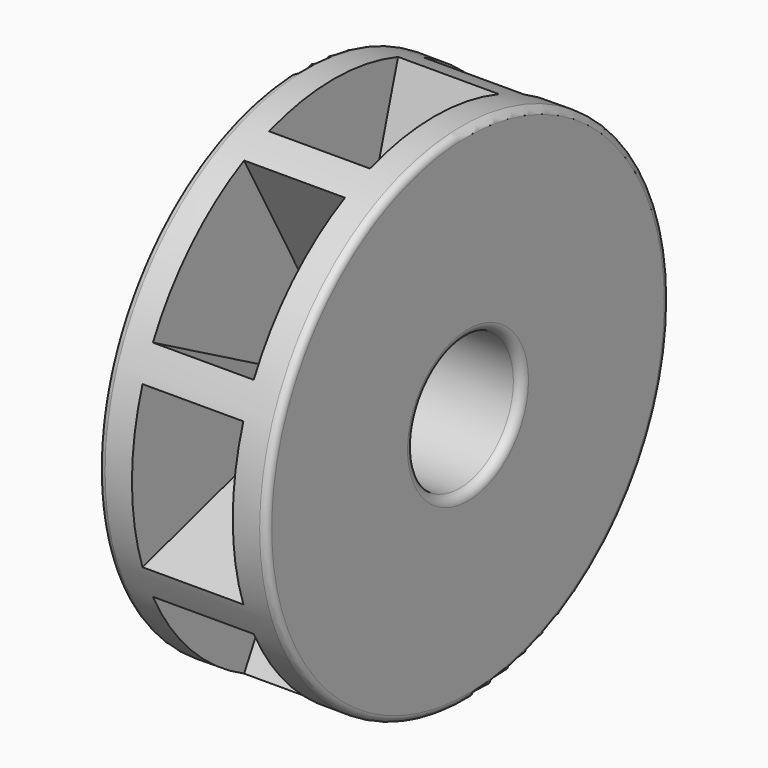
from build123d import *

# Parameters (mm, degrees)
SKETCH_R           = 30
SKETCH_R_2         = 8
PAD_DEPTH          = 10
POCKET_DEPTH       = 6
POLARPATTERN_COUNT = 8
FILLET_R           = 0.8
FILLET001_R        = 1


with BuildPart() as part:
    # Sketch → Pad (new body, symmetric)
    with BuildSketch(Plane.YZ):
        Circle(SKETCH_R)
        Circle(SKETCH_R_2, mode=Mode.SUBTRACT)
    extrude(amount=PAD_DEPTH, both=True)

    # Sketch001 → Pocket (cut, symmetric)
    with BuildSketch(Plane.YZ):
        with BuildLine():
            ThreePointArc((3.987491, 9.170601), (0, 10), (-3.987491, 9.170601))
            Line((-10.153749, 30.346357), (-3.987491, 9.170601))
            ThreePointArc((10.153749, 30.346357), (0, 32), (-10.153749, 30.346357))
            Line((10.153749, 30.346357), (3.987491, 9.170601))
        make_face()
    pocket = extrude(amount=POCKET_DEPTH, both=True, mode=Mode.SUBTRACT)

    # PolarPattern: Pocket ×8 about axis
    polarpattern_axis = Axis((0, 0, 0), (1, 0, 0))
    for i in range(1, POLARPATTERN_COUNT):
        add(pocket.rotate(polarpattern_axis, i * 360 / POLARPATTERN_COUNT), mode=Mode.SUBTRACT)

    # Fillet
    fillet_edges = [part.edges().sort_by_distance(p)[0] for p in [
        (10, -30, 0),
        (-10, -30, 0),
    ]]
    fillet(fillet_edges, radius=FILLET_R)

    # Fillet001
    fillet001_edges = [part.edges().sort_by_distance(p)[0] for p in [
        (-10, -8, 0),
        (10, -8, 0),
    ]]
    fillet(fillet001_edges, radius=FILLET001_R)


solid = part.part
